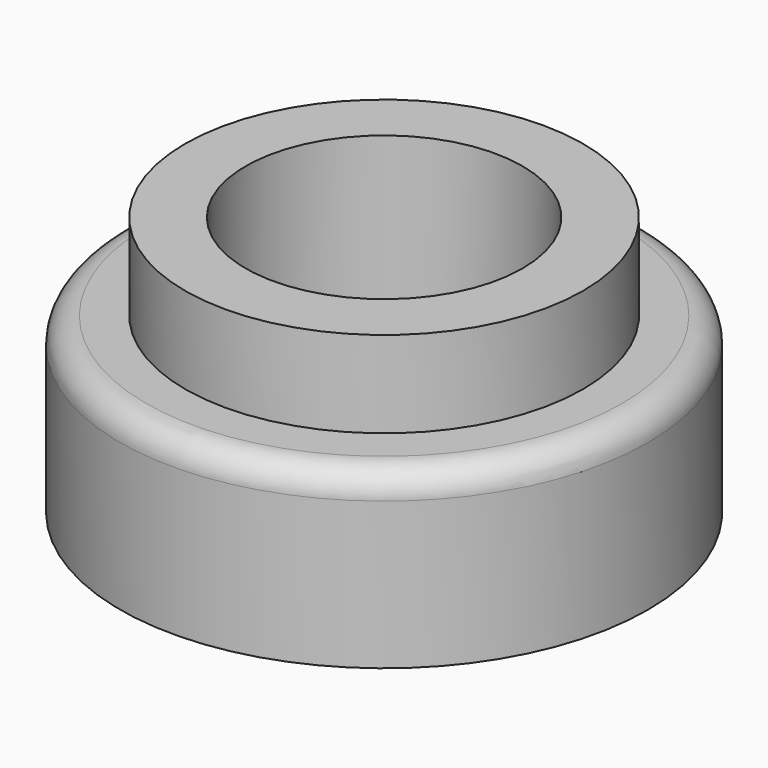
from build123d import *

# Parameters (mm, degrees)
F0_R     = 2.3
F0_R_2   = 1.6
F1_DEPTH = 3
F0_R_3   = 3.05
F2_DEPTH = 2
F3_R     = 0.3
F4_SIZE  = 1


with BuildPart() as f1:
    # F0 (on Top) → F1 (new body)
    with BuildSketch(Plane.XY):
        Circle(F0_R)
        Circle(F0_R_2, mode=Mode.SUBTRACT)
    extrude(amount=F1_DEPTH)

    # F0 (on Top) → F2 (join)
    with BuildSketch(Plane.XY):
        Circle(F0_R_3)
        Circle(F0_R, mode=Mode.SUBTRACT)
    extrude(amount=F2_DEPTH)

    # F3
    f3_edges = [f1.edges().sort_by_distance(p)[0] for p in [
        (-3.05, 0, 2),
    ]]
    fillet(f3_edges, radius=F3_R)

    # F4
    f4_edges = [f1.edges().sort_by_distance(p)[0] for p in [
        (-1.6, 0, 0),
    ]]
    chamfer(f4_edges, length=F4_SIZE)


solid = f1.part
